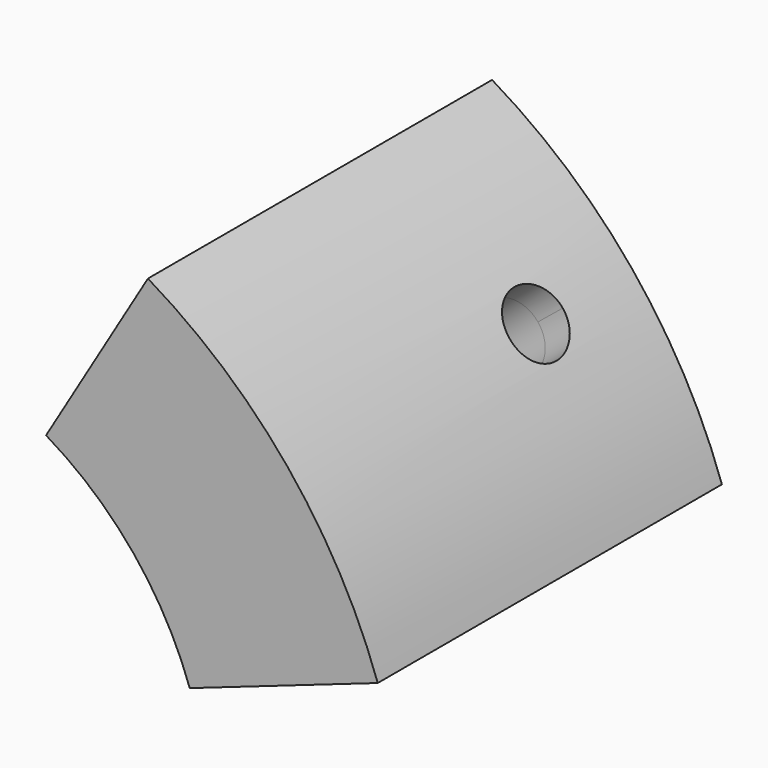
from build123d import *

# Parameters (mm, degrees)
F2_DEPTH = 28.4
F3_DEPTH = 4
F6_D     = 5
F6_DEPTH = 5
F6_TIP   = 1.5021515476
F7_D     = 5
F7_DEPTH = 7
F7_TIP   = 1.5021515476
F8_R     = 1


with BuildPart() as f2:
    # F0 (on Front) → F2 (new body)
    with BuildSketch(Plane.XZ):
        with BuildLine():
            Line((23.6029717884, 8.2401288069), (37.7647548615, 13.1842060911))
            ThreePointArc((37.7647548615, 13.1842060911), (30.9779974122, 25.3054080451), (20.4548362885, 34.3744043208))
            Line((20.4548362885, 34.3744043208), (12.7842726803, 21.4840027005))
            ThreePointArc((12.7842726803, 21.4840027005), (19.3612483826, 15.8158800282), (23.6029717884, 8.2401288069))
        make_face()
    extrude(amount=F2_DEPTH)

    # F1 (on Front) + F0 (on Front) → F3 (join)
    with BuildSketch(Plane.XZ):
        with BuildLine():
            ThreePointArc((15.2340019476, 15.8721512297), (17.0378985767, 13.9179744248), (18.5928148308, 11.7604097152))
            Line((18.5928148308, 11.7604097152), (21.4911474241, 12.7722583124))
            ThreePointArc((21.4911474241, 12.7722583124), (22.6606475272, 10.5591218219), (23.6029717884, 8.2401288069))
            Line((23.6029717884, 8.2401288069), (37.7647548615, 13.1842060911))
            ThreePointArc((37.7647548615, 13.1842060911), (30.9779974122, 25.3054080451), (20.4548362885, 34.3744043208))
            Line((20.4548362885, 34.3744043208), (12.7842726803, 21.4840027005))
            ThreePointArc((12.7842726803, 21.4840027005), (14.8685909795, 20.0978855177), (16.8038497839, 18.5102845046))
            Line((16.8038497839, 18.5102845046), (15.2340019476, 15.8721512297))
        make_face()
    with BuildSketch(Plane.XZ):
        with BuildLine():
            Line((23.6029717884, 8.2401288069), (37.7647548615, 13.1842060911))
            ThreePointArc((37.7647548615, 13.1842060911), (30.9779974122, 25.3054080451), (20.4548362885, 34.3744043208))
            Line((20.4548362885, 34.3744043208), (12.7842726803, 21.4840027005))
            ThreePointArc((12.7842726803, 21.4840027005), (19.3612483826, 15.8158800282), (23.6029717884, 8.2401288069))
        make_face()
    extrude(amount=-F3_DEPTH)

    # F6 (one way)
    with BuildSketch(Plane(origin=(29.109795575, 0, 23.7793052059), x_dir=(0, 1, 0), z_dir=(-0.7744499353, 0, -0.6326352011))):
        with Locations((-5, 0)):
            Circle(F6_D / 2)
    extrude(amount=-F6_DEPTH, mode=Mode.SUBTRACT)
    with Locations(Plane(origin=(29.109795575, 0, 23.7793052059), x_dir=(0, 1, 0), z_dir=(-0.7744499353, 0, -0.6326352011))):
        with Locations((-5, 0)):
            with Locations((0, 0, -(F6_DEPTH + F6_TIP / 2))):  # 118° drill point
                Cone(0, F6_D / 2, F6_TIP, mode=Mode.SUBTRACT)

    # F7
    with Locations(Plane(origin=(29.109795575, 0, 23.7793052059), x_dir=(0, 1, 0), z_dir=(0.7744499353, 0, 0.6326352011))):
        with Locations((-5, 0)):
            Hole(F7_D / 2, depth=F7_DEPTH)
            with Locations((0, 0, -(F7_DEPTH + F7_TIP / 2))):  # 118° drill point
                Cone(0, F7_D / 2, F7_TIP, mode=Mode.SUBTRACT)

    # F8
    f8_edges = [f2.edges().sort_by_distance(p)[0] for p in [
        (21.491147, 2, 12.772258),
        (16.80385, 2, 18.510285),
    ]]
    fillet(f8_edges, radius=F8_R)


solid = f2.part
